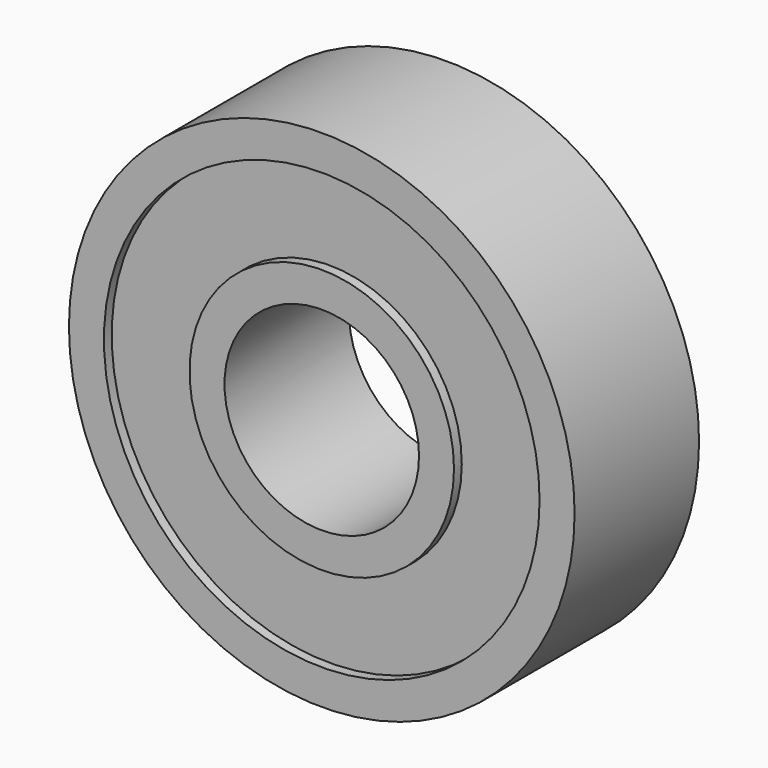
from build123d import *

# Parameters (mm, degrees)
SKETCH_R        = 13
PAD_DEPTH       = 4
SKETCH001_R     = 11.2
SKETCH001_R_2   = 6.8
POCKET_DEPTH    = 0.5
SKETCH002_R     = 5
POCKET001_DEPTH = 8.001


with BuildPart() as part:
    # Sketch → Pad (new body, symmetric)
    with BuildSketch(Plane.XZ):
        Circle(SKETCH_R)
    extrude(amount=PAD_DEPTH, both=True)

    # Sketch001 (on Face2 of Pad) → Pocket (cut)
    with BuildSketch(Plane(origin=(0, 4, 0), x_dir=(1, 0, 0), z_dir=(0, 1, 0))):
        Circle(SKETCH001_R)
        Circle(SKETCH001_R_2, mode=Mode.SUBTRACT)
    pocket = extrude(amount=-POCKET_DEPTH, mode=Mode.SUBTRACT)

    # Mirrored: Pocket across XZ
    add(pocket.mirror(Plane.XZ), mode=Mode.SUBTRACT)

    # Sketch002 (on Face10 of Mirrored) → Pocket001 (cut, through all)
    with BuildSketch(Plane(origin=(0, 4, 0), x_dir=(1, 0, 0), z_dir=(0, 1, 0))):
        Circle(SKETCH002_R)
    extrude(amount=-POCKET001_DEPTH, mode=Mode.SUBTRACT)


solid = part.part
